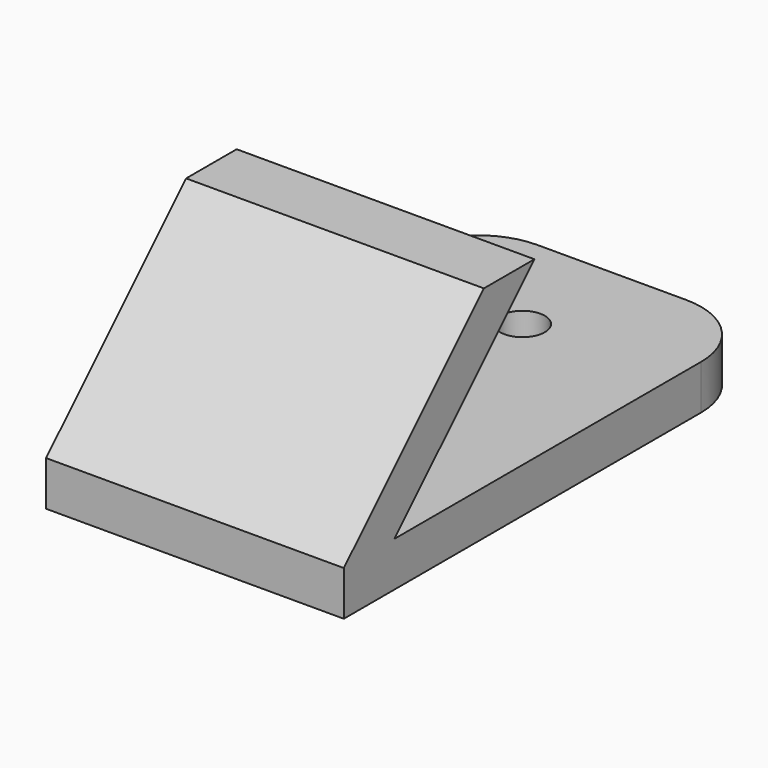
from build123d import *

# Parameters (mm, degrees)
F1_DEPTH = 10
F2_R     = 5
F4_D     = 3


with BuildPart() as f1:
    # F0 (on Right) → F1 (new body, symmetric)
    with BuildSketch(Plane.YZ):
        Polygon((-11.7573593129, 3), (0, 14.7573593129), (-4.2426406871, 14.7573593129), (-16, 3), (-16, 0), (19, 0), (19, 3), align=None)
    extrude(amount=F1_DEPTH, both=True)

    # F2
    f2_edges = [f1.edges().sort_by_distance(p)[0] for p in [
        (10, 19, 1.5),
        (-10, 19, 1.5),
    ]]
    fillet(f2_edges, radius=F2_R)

    # F4 (through all)
    with Locations(Plane(origin=(0, 0, 0), x_dir=(1, 0, 0), z_dir=(0, 0, -1))):
        with Locations((0, -11.5)):
            Hole(F4_D / 2)


solid = f1.part
